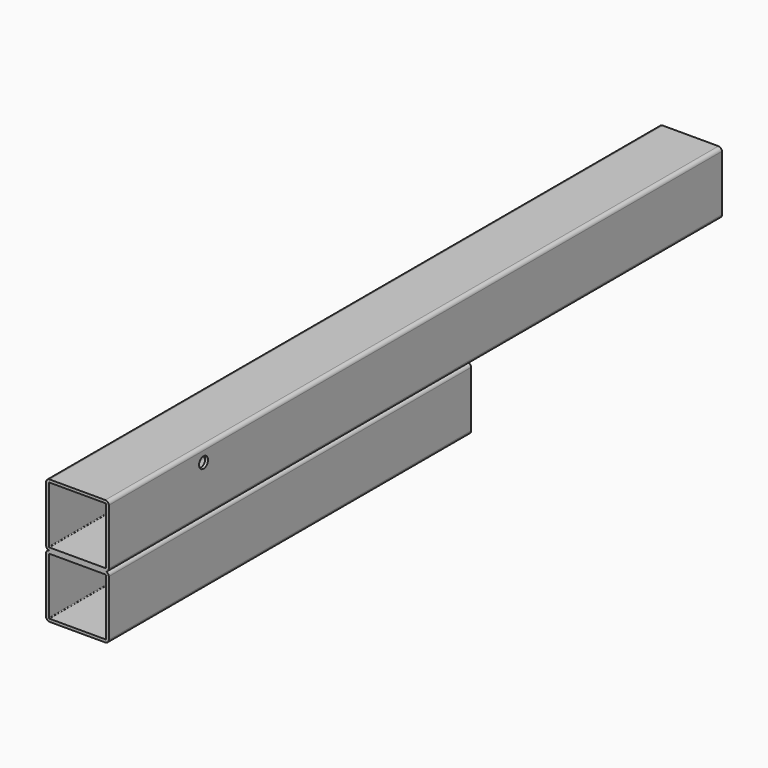
from build123d import *

# Parameters (mm, degrees)
F1_DEPTH = 1100
F2_R     = 8
F3_DEPTH = 90.001
F4_W     = 450
F4_H     = 80
F4_H_2   = 5
F5_DEPTH = 90.001


with BuildPart() as f1:
    # F0 (on Front) → F1 (new body)
    with BuildSketch(Plane.XZ):
        with BuildLine():
            ThreePointArc((45, 40), (43.5355339059, 43.5355339059), (40, 45))
            Line((40, 45), (-40, 45))
            ThreePointArc((-40, 45), (-43.5355339059, 43.5355339059), (-45, 40))
            Line((-45, 40), (-45, -40))
            ThreePointArc((-45, -40), (-43.5355339059, -43.5355339059), (-40, -45))
            Line((-40, -45), (40, -45))
            ThreePointArc((40, -45), (43.5355339059, -43.5355339059), (45, -40))
            Line((45, -40), (45, 40))
        make_face()
        with BuildLine():
            ThreePointArc((-41, 40), (-40.7071067812, 40.7071067812), (-40, 41))
            Line((-40, 41), (40, 41))
            ThreePointArc((40, 41), (40.7071067812, 40.7071067812), (41, 40))
            Line((41, 40), (41, -40))
            ThreePointArc((41, -40), (40.7071067812, -40.7071067812), (40, -41))
            Line((40, -41), (-40, -41))
            ThreePointArc((-40, -41), (-40.7071067812, -40.7071067812), (-41, -40))
            Line((-41, -40), (-41, 40))
        make_face(mode=Mode.SUBTRACT)
        with BuildLine():
            ThreePointArc((45, -50), (43.5355339059, -46.4644660941), (40, -45))
            Line((40, -45), (-40, -45))
            ThreePointArc((-40, -45), (-43.5355339059, -46.4644660941), (-45, -50))
            Line((-45, -50), (-45, -130))
            ThreePointArc((-45, -130), (-43.5355339059, -133.5355339059), (-40, -135))
            Line((-40, -135), (40, -135))
            ThreePointArc((40, -135), (43.5355339059, -133.5355339059), (45, -130))
            Line((45, -130), (45, -50))
        make_face()
        with BuildLine():
            ThreePointArc((-41, -50), (-40.7071067812, -49.2928932188), (-40, -49))
            Line((-40, -49), (40, -49))
            ThreePointArc((40, -49), (40.7071067812, -49.2928932188), (41, -50))
            Line((41, -50), (41, -130))
            ThreePointArc((41, -130), (40.7071067812, -130.7071067812), (40, -131))
            Line((40, -131), (-40, -131))
            ThreePointArc((-40, -131), (-40.7071067812, -130.7071067812), (-41, -130))
            Line((-41, -130), (-41, -50))
        make_face(mode=Mode.SUBTRACT)
    extrude(amount=-F1_DEPTH)

    # F2 (on face) → F3 (cut, through all)
    with BuildSketch(Plane.YZ.offset(45)):
        with Locations((170, 25)):
            Circle(F2_R)
    extrude(amount=-F3_DEPTH, mode=Mode.SUBTRACT)

    # F4 (on face) → F5 (cut, through all)
    with BuildSketch(Plane.YZ.offset(45)):
        with Locations((875, -90)):
            Rectangle(F4_W, F4_H)
        with Locations((875, -132.5)):
            Rectangle(F4_W, F4_H_2)
        with Locations((875, -47.5)):
            Rectangle(F4_W, F4_H_2)
    extrude(amount=-F5_DEPTH, mode=Mode.SUBTRACT)


solid = f1.part
